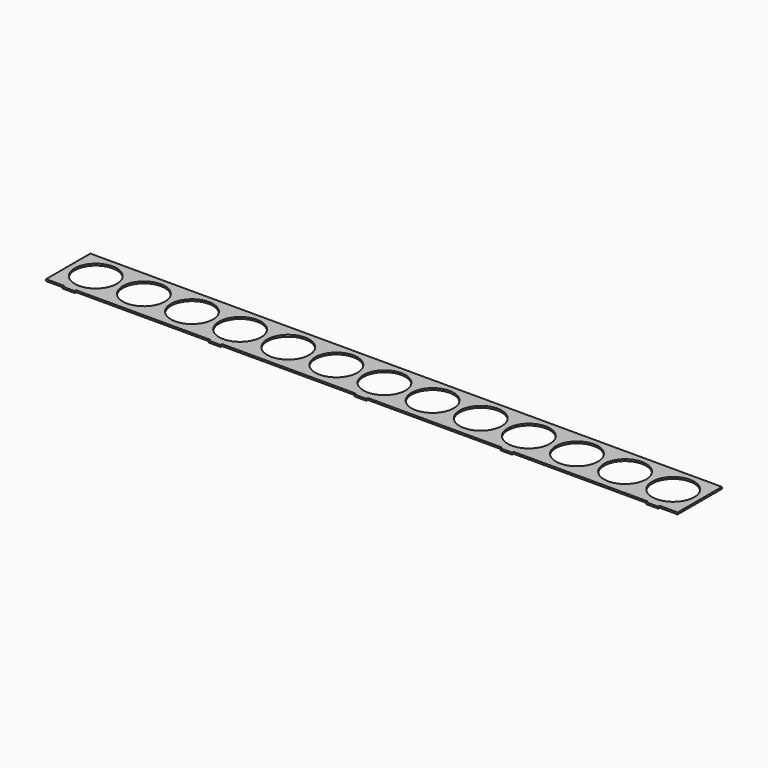
from build123d import *

# Parameters (mm, degrees)
F0_R     = 35
F1_DEPTH = 3


with BuildPart() as f1:
    # F0 (on Top) → F1 (new body)
    with BuildSketch(Plane.XY):
        Polygon((525, 99.130659), (-525, 99.130659), (-525, 7.130659), (-495, 7.130659), (-495, 4.130659), (-485, 4.130659), (-475, 4.130659), (-475, 7.130659), (-252.5, 7.130659), (-252.5, 4.130659), (-242.5, 4.130659), (-232.5, 4.130659), (-232.5, 7.130659), (-10, 7.130659), (-10, 4.130659), (0, 4.130659), (10, 4.130659), (10, 7.130659), (232.5, 7.130659), (232.5, 4.130659), (242.5, 4.130659), (252.5, 4.130659), (252.5, 7.130659), (475, 7.130659), (475, 4.130659), (485, 4.130659), (495, 4.130659), (495, 7.130659), (525, 7.130659), align=None)
        with Locations((-480, 54.130659)):
            Circle(F0_R, mode=Mode.SUBTRACT)
        with Locations((-400, 54.130659)):
            Circle(F0_R, mode=Mode.SUBTRACT)
        with Locations((-320, 54.130659)):
            Circle(F0_R, mode=Mode.SUBTRACT)
        with Locations((-240, 54.130659)):
            Circle(F0_R, mode=Mode.SUBTRACT)
        with Locations((-160, 54.130659)):
            Circle(F0_R, mode=Mode.SUBTRACT)
        with Locations((-80, 54.130659)):
            Circle(F0_R, mode=Mode.SUBTRACT)
        with Locations((0, 54.130659)):
            Circle(F0_R, mode=Mode.SUBTRACT)
        with Locations((80, 54.130659)):
            Circle(F0_R, mode=Mode.SUBTRACT)
        with Locations((160, 54.130659)):
            Circle(F0_R, mode=Mode.SUBTRACT)
        with Locations((240, 54.130659)):
            Circle(F0_R, mode=Mode.SUBTRACT)
        with Locations((320, 54.130659)):
            Circle(F0_R, mode=Mode.SUBTRACT)
        with Locations((400, 54.130659)):
            Circle(F0_R, mode=Mode.SUBTRACT)
        with Locations((480, 54.130659)):
            Circle(F0_R, mode=Mode.SUBTRACT)
    extrude(amount=F1_DEPTH)


solid = f1.part
